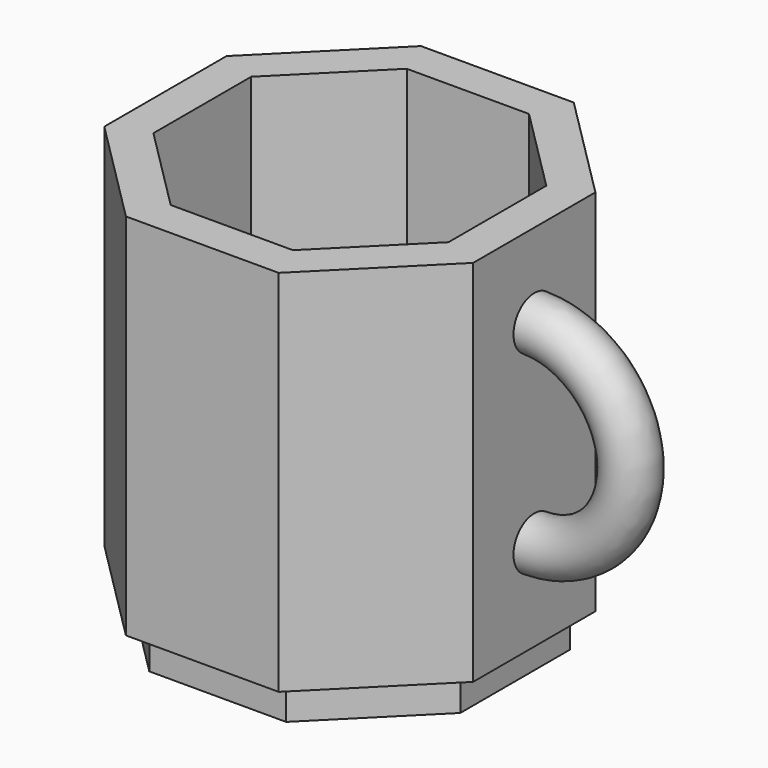
from build123d import *

# Parameters (mm, degrees)
F1_DEPTH = 100
F2_R     = 7.0395
F6_DEPTH = 10


with BuildPart() as f1:
    # F0 (on Top) → F1 (new body)
    with BuildSketch(Plane.XY):
        Polygon((20.710678, 50), (-20.710678, 50), (-50, 20.710678), (-50, -20.710678), (-20.710678, -50), (20.710678, -50), (50, -20.710678), (50, -9.2725), (50, 9.2725), (50, 20.710678), align=None)
        Polygon((-40, 16.568542), (-16.568542, 40), (16.568542, 40), (40, 16.568542), (40, -16.568542), (16.568542, -40), (-16.568542, -40), (-40, -16.568542), align=None, mode=Mode.SUBTRACT)
    extrude(amount=F1_DEPTH)

    # F4: sweep along a path in F3
    with BuildLine(Plane.XZ) as f4_path:
        ThreePointArc((49.790855, 24.170094), (76.688355, 51.067594), (49.790855, 77.965094))
    # F2 (on face) → F4 (sweep)
    with BuildSketch(Plane.YZ.offset(50)):
        with Locations((0, 77.352941)):
            Circle(F2_R)
    sweep(path=f4_path.line)

    # F5 (on Top) → F6 (join)
    with BuildSketch(Plane.XY):
        Polygon((-18.548241, -44.779416), (18.548241, -44.779416), (44.779416, -18.548241), (44.779416, 18.548241), (18.548241, 44.779416), (-18.548241, 44.779416), (-44.779416, 18.548241), (-44.779416, -18.548241), align=None)
    extrude(amount=-F6_DEPTH)


solid = f1.part
